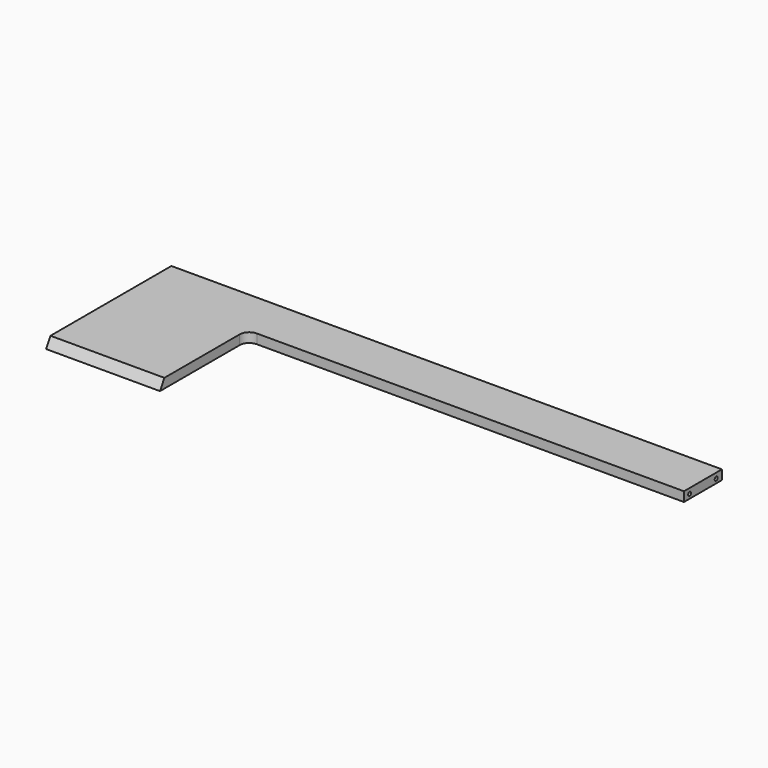
from build123d import *

# Parameters (mm, degrees)
F0_W            = 1160
F0_H            = 330
F1_DEPTH        = 20
F3_DEPTH        = 20.001
F5_DEPTH        = 580.001
F10_D           = 8
F10_DEPTH       = 30
F10_TIP         = 2.4034424761
F10_ON_F7_D     = 8
F10_ON_F7_DEPTH = 30
F10_ON_F7_TIP   = 2.4034424761
F10_ON_F8_D     = 8
F10_ON_F8_DEPTH = 30
F10_ON_F8_TIP   = 2.4034424761
F11_D           = 8
F11_DEPTH       = 10
F11_TIP         = 2.4034424761


with BuildPart() as f1:
    # F0 (on Top) → F1 (new body)
    with BuildSketch(Plane.XY):
        Rectangle(F0_W, F0_H)
    extrude(amount=F1_DEPTH)

    # F2 (on face) → F3 (cut, through all)
    with BuildSketch(Plane.XY.offset(20)):
        with BuildLine():
            Line((-340, 45), (-340, -165))
            Line((-340, -165), (580, -165))
            Line((580, -165), (580, 65))
            Line((580, 65), (-320, 65))
            ThreePointArc((-320, 65), (-334.1421356237, 59.1421356237), (-340, 45))
        make_face()
    extrude(amount=-F3_DEPTH, mode=Mode.SUBTRACT)

    # F4 (on Right) → F5 (cut, through all)
    with BuildSketch(Plane.YZ):
        Polygon((-165, 20), (-165, 0), (-153.4529946162, 20), align=None)
    extrude(amount=-F5_DEPTH, mode=Mode.SUBTRACT)

    # F10
    with Locations(Plane(origin=(-580, 0, 0), x_dir=(0, -1, 0), z_dir=(-1, 0, 0))):
        with Locations((-135, 9), (115, 9)):
            Hole(F10_D / 2, depth=F10_DEPTH)
            with Locations((0, 0, -(F10_DEPTH + F10_TIP / 2))):  # 118° drill point
                Cone(0, F10_D / 2, F10_TIP, mode=Mode.SUBTRACT)

    # F10 on F7
    with Locations(Plane(origin=(0, 165, 0), x_dir=(-1, 0, 0), z_dir=(0, 1, 0))):
        with Locations((-430, 9), (0, 9), (430, 9)):
            Hole(F10_ON_F7_D / 2, depth=F10_ON_F7_DEPTH)
            with Locations((0, 0, -(F10_ON_F7_DEPTH + F10_ON_F7_TIP / 2))):  # 118° drill point
                Cone(0, F10_ON_F7_D / 2, F10_ON_F7_TIP, mode=Mode.SUBTRACT)

    # F10 on F8
    with Locations(Plane.YZ.offset(580)):
        with Locations((80, 9), (150, 9)):
            Hole(F10_ON_F8_D / 2, depth=F10_ON_F8_DEPTH)
            with Locations((0, 0, -(F10_ON_F8_DEPTH + F10_ON_F8_TIP / 2))):  # 118° drill point
                Cone(0, F10_ON_F8_D / 2, F10_ON_F8_TIP, mode=Mode.SUBTRACT)

    # F11
    with Locations(Plane(origin=(0, 0, 0), x_dir=(1, 0, 0), z_dir=(0, 0, -1))):
        with Locations((-349, -85), (-349, 110)):
            Hole(F11_D / 2, depth=F11_DEPTH)
            with Locations((0, 0, -(F11_DEPTH + F11_TIP / 2))):  # 118° drill point
                Cone(0, F11_D / 2, F11_TIP, mode=Mode.SUBTRACT)


solid = f1.part
